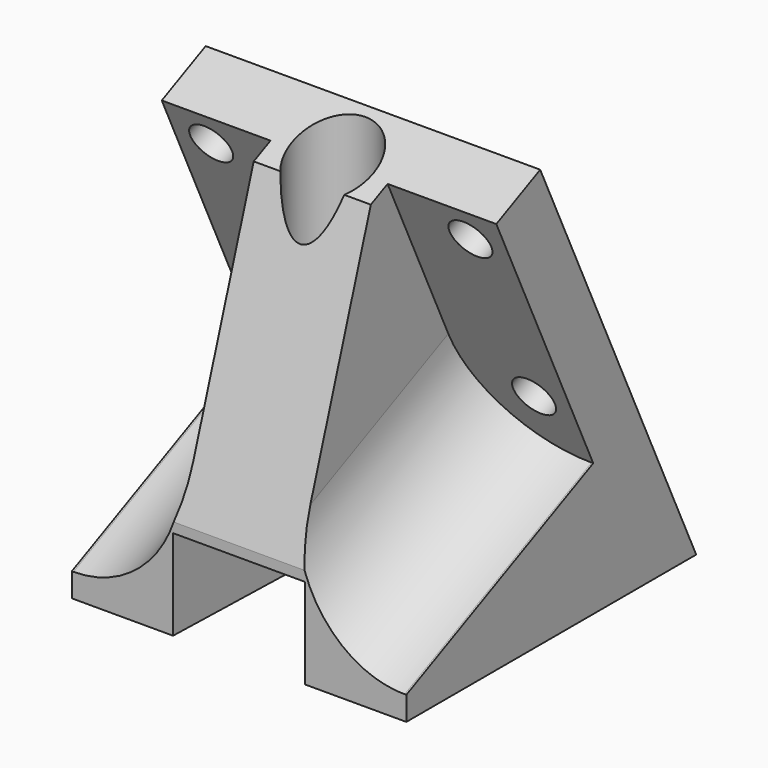
from build123d import *

# Parameters (mm, degrees)
PAD010_DEPTH    = 20
SKETCH018_W     = 12.75
SKETCH018_H     = 10.8
POCKET006_DEPTH = 33.75
POCKET007_DEPTH = 50
SKETCH017_R     = 4.9
POCKET008_DEPTH = 30.001
SKETCH020_R     = 2.6
POCKET009_DEPTH = 20.001
SKETCH021_R     = 2.5
POCKET010_DEPTH = 31.086657
POCKET011_DEPTH = 10.8


with BuildPart() as part:
    # Sketch016 → Pad010 (new body, symmetric)
    with BuildSketch(Plane.YZ):
        Polygon((23.315383, 0), (0, 50), (-9.063078, 45.773817), (-20, 12), (-20, 0), align=None)
    extrude(amount=PAD010_DEPTH, both=True)

    # Sketch018 → Pocket006 (cut)
    with BuildSketch(Plane.XZ.offset(20)):
        with Locations((0, 5.4)):
            Rectangle(SKETCH018_W, SKETCH018_H)
    extrude(amount=-POCKET006_DEPTH, mode=Mode.SUBTRACT)

    # Sketch019 → Pocket007 (cut)
    with BuildSketch(Plane(origin=(0, 13, 5), x_dir=(1, 0, 0), z_dir=(0, -0.906308, -0.422618))):
        with BuildLine():
            Line((-29.407349, 60.205246), (-7, 60.205246))
            Line((-7, 60.205246), (-7, 24.801724))
            ThreePointArc((-19.801724, 12), (-10.749538, 15.749538), (-7, 24.801724))
            Line((-19.801724, 12), (-29.407349, 12))
            Line((-29.407349, 12), (-29.407349, 60.205246))
        make_face()
        with BuildLine():
            Line((7, 60.205246), (29.407349, 60.205246))
            Line((29.407349, 60.205246), (29.407349, 12))
            Line((29.407349, 12), (19.801724, 12))
            ThreePointArc((7, 24.801724), (10.749538, 15.749538), (19.801724, 12))
            Line((7, 24.801724), (7, 60.205246))
        make_face()
    extrude(amount=POCKET007_DEPTH, mode=Mode.SUBTRACT)

    # Sketch017 → Pocket008 (cut, through all)
    with BuildSketch(Plane.XY.offset(20)):
        with Locations((0, -6)):
            Circle(SKETCH017_R)
        with Locations((0, 8.5)):
            Circle(SKETCH017_R)
    extrude(amount=POCKET008_DEPTH, mode=Mode.SUBTRACT)

    # Sketch020 → Pocket009 (cut, through all)
    with BuildSketch(Plane.XY.offset(20)):
        with Locations((0, -6)):
            Circle(SKETCH020_R)
        with Locations((0, 8.5)):
            Circle(SKETCH020_R)
    extrude(amount=-POCKET009_DEPTH, mode=Mode.SUBTRACT)

    # Sketch021 → Pocket010 (cut, through all)
    with BuildSketch(Plane(origin=(0, 10, 5), x_dir=(1, 0, 0), z_dir=(0, -0.906308, -0.422618))):
        with Locations((15.5, 18.346014)):
            Circle(SKETCH021_R)
        with Locations((-15.5, 18.346014)):
            Circle(SKETCH021_R)
        with Locations((15.5, 40.846014)):
            Circle(SKETCH021_R)
        with Locations((-15.5, 40.846014)):
            Circle(SKETCH021_R)
    extrude(amount=-POCKET010_DEPTH, mode=Mode.SUBTRACT)

    # Sketch022 → Pocket011 (cut)
    with BuildSketch(Plane.XY):
        Polygon((-7.9, -20.114331), (7.9, -20.114331), (7.377167, -2.314331), (-7.377167, -2.314331), align=None)
    extrude(amount=POCKET011_DEPTH, mode=Mode.SUBTRACT)


with BuildPart() as part_1:
    # Body009 placement: moved
    add(part.part.moved(Location((30.5, -12, 2))))


solid = part_1.part
